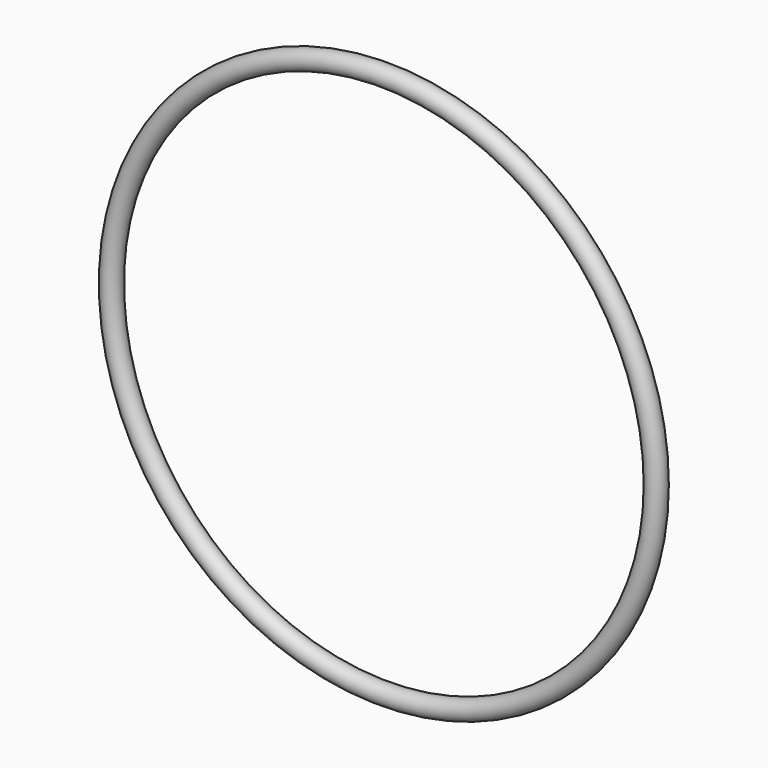
from build123d import *


with BuildPart() as f1:
    # F0 (on Top) → F1 (revolve)
    with BuildSketch(Plane.XY):
        with BuildLine():
            ThreePointArc((40, 0), (41.5, -1.5), (43, 0))
            ThreePointArc((43, 0), (41.5, 1.5), (40, 0))
        make_face()
    revolve(axis=Axis((0, 0.059985, 0), (0, 1, 0)))


solid = f1.part
